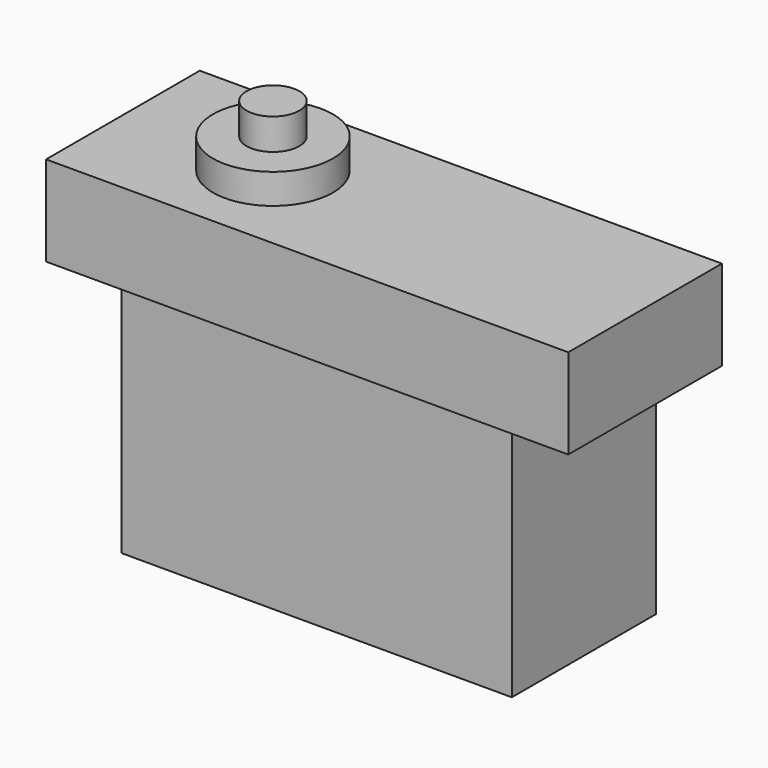
from build123d import *

# Parameters (mm, degrees)
F0_W     = 41.275
F0_H     = 19.05
F1_DEPTH = 25.4
F2_W     = 55.245
F2_H     = 20.32
F3_DEPTH = 9.525
F4_R     = 6.35
F5_DEPTH = 3.175
F6_R     = 2.794
F7_DEPTH = 3.302


with BuildPart() as f1:
    # F0 (on Top) → F1 (new body)
    with BuildSketch(Plane.XY):
        with Locations((-16.2392864004, 7.7934292579)):
            Rectangle(F0_W, F0_H)
    extrude(amount=F1_DEPTH)

    # F2 (on face) → F3 (join)
    with BuildSketch(Plane.XY.offset(25.4)):
        with Locations((-16.2392864004, 7.1584292579)):
            Rectangle(F2_W, F2_H)
    extrude(amount=F3_DEPTH)

    # F4 (on face) → F5 (join)
    with BuildSketch(Plane.XY.offset(34.925)):
        with Locations((-27.9867864004, 7.1584292579)):
            Circle(F4_R)
    extrude(amount=F5_DEPTH)

    # F6 (on face) → F7 (join)
    with BuildSketch(Plane.XY.offset(38.1)):
        with Locations((-27.9867864004, 7.1584292579)):
            Circle(F6_R)
    extrude(amount=F7_DEPTH)


solid = f1.part
